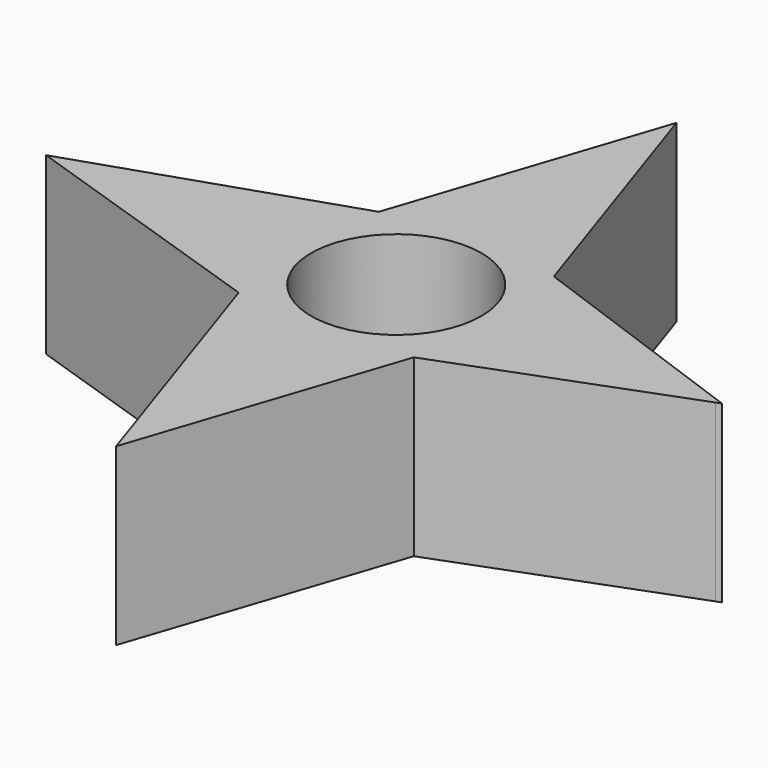
from build123d import *

# Parameters (mm, degrees)
F0_R     = 6.179709
F1_DEPTH = 12.7


with BuildPart() as f1:
    # F0 (on Top) → F1 (new body)
    with BuildSketch(Plane.XY):
        Polygon((6.35, -6.35), (23.169448, 0), (23.514125, 0.130129), (6.35, 6.35), (0, 25.4), (-6.35, 6.35), (-25.4, 0), (-6.35, -6.35), (0, -25.4), align=None)
        Circle(F0_R, mode=Mode.SUBTRACT)
    extrude(amount=F1_DEPTH)


solid = f1.part
